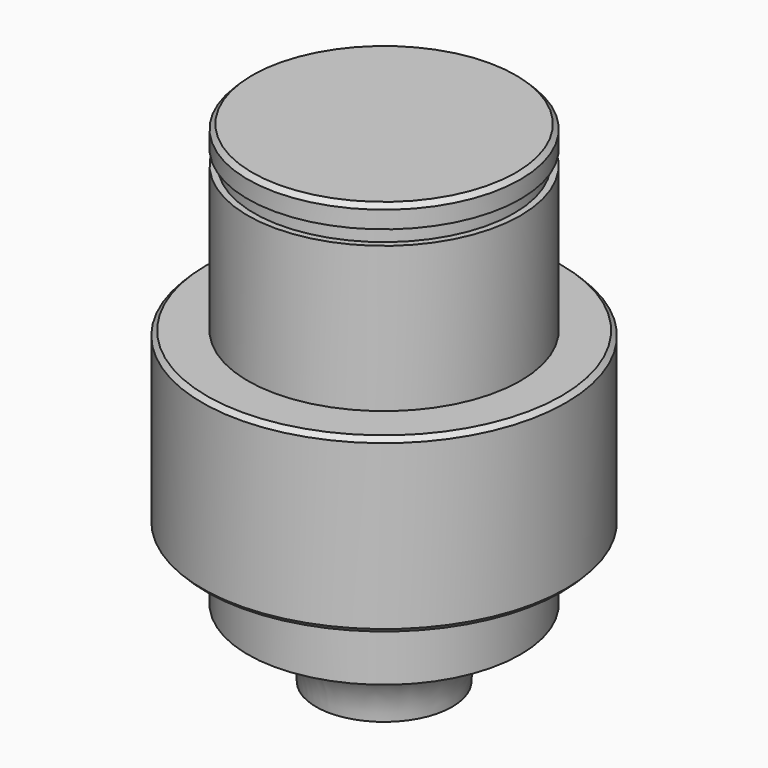
from build123d import *

# Parameters (mm, degrees)
F2_SIZE = 0.5


with BuildPart() as f1:
    # F0 (on Front) → F1 (revolve)
    with BuildSketch(Plane.XZ):
        with BuildLine():
            Line((15, 54), (0, 54))
            Line((0, 54), (0, 0))
            Line((0, 0), (7.5, 0))
            ThreePointArc((7.5, 0), (9.696699, 5.303301), (15, 7.5))
            Line((15, 7.5), (15, 15))
            Line((15, 15), (20, 15))
            Line((20, 15), (20, 34))
            Line((20, 34), (15, 34))
            Line((15, 34), (15, 50))
            Line((15, 50), (14.3, 50))
            Line((14.3, 50), (14.3, 51.6))
            Line((14.3, 51.6), (15, 51.6))
            Line((15, 51.6), (15, 54))
        make_face()
    revolve(axis=Axis((0, 0, 27), (0, 0, 1)))

    # F2
    f2_edges = [f1.edges().sort_by_distance(p)[0] for p in [
        (-15, 0, 54),
        (-20, 0, 34),
        (-20, 0, 15),
    ]]
    chamfer(f2_edges, length=F2_SIZE)


solid = f1.part
